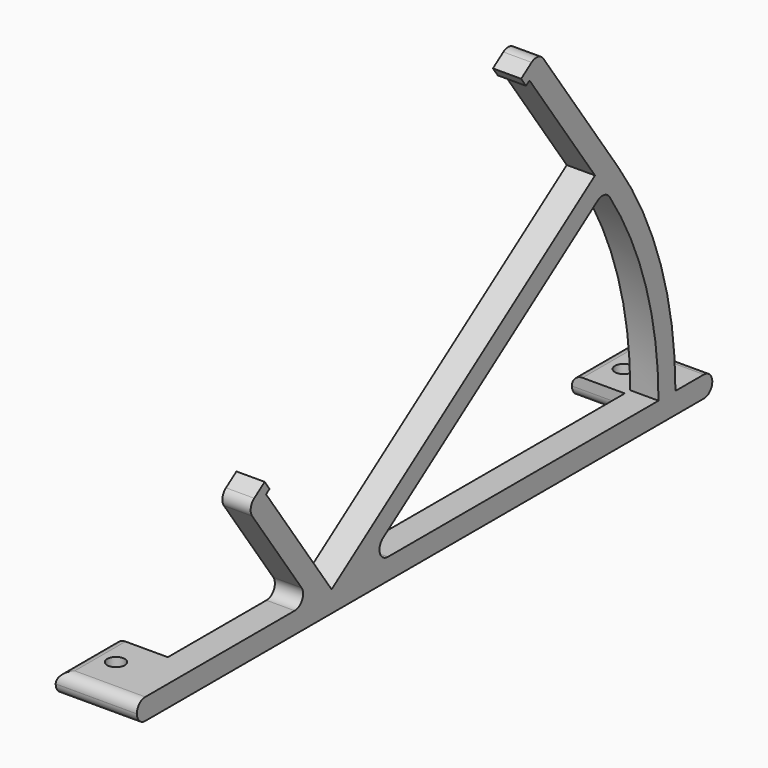
from build123d import *

# Parameters (mm, degrees)
SKETCH_W     = 5.34
SKETCH_H     = 136
PAD_DEPTH    = 4
PAD001_DEPTH = 5.34
SKETCH002_W  = 10
SKETCH002_H  = 14
SKETCH002_R  = 1.65
PAD002_DEPTH = 4
FILLET_R     = 2
FILLET001_R  = 1.99


with BuildPart() as body:
    # Sketch → Pad (new body)
    with BuildSketch(Plane.XY):
        with Locations((-2.67, 0)):
            Rectangle(SKETCH_W, SKETCH_H)
    extrude(amount=-PAD_DEPTH)

    # Sketch001 → Pad001 (join)
    with BuildSketch(Plane.YZ):
        with BuildLine():
            ThreePointArc((59.287408, 0), (55.84916, 22.338654), (45.852682, 42.609507))
            Line((45.852682, 42.609507), (28.071813, 68.00322))
            Line((26.92466, 69.641524), (28.071813, 68.00322))
            Line((22.828899, 66.773642), (26.92466, 69.641524))
            Line((23.976052, 65.135338), (22.828899, 66.773642))
            Line((24.795204, 65.708914), (23.976052, 65.135338))
            Line((24.795204, 65.708914), (40.281768, 43.591809))
            Line((40.281768, 43.591809), (-21.973787, 0))
            Line((-21.973787, 0), (-37.460351, 22.117105))
            Line((-36.641199, 22.690682), (-37.460351, 22.117105))
            Line((-37.788352, 24.328986), (-36.641199, 22.690682))
            Line((-41.884112, 21.461104), (-37.788352, 24.328986))
            Line((-40.736959, 19.822799), (-41.884112, 21.461104))
            Line((-40.736959, 19.822799), (-26.856886, 0))
            Line((-26.856886, 0), (-26.856886, -1))
            Line((-26.856886, -1), (-15, -1))
            Line((-15, -1), (-15, 0))
            Line((-15, 0), (42.576074, 40.315201))
            ThreePointArc((55.287408, 0), (52.034292, 21.135831), (42.576074, 40.315201))
            Line((55.287408, 0), (59.287408, 0))
        make_face()
    extrude(amount=-PAD001_DEPTH)

    # Sketch002 → Pad002 (join)
    with BuildSketch(Plane.XY):
        with Locations((5, 61)):
            Rectangle(SKETCH002_W, SKETCH002_H)
        with Locations((5, 60)):
            Circle(SKETCH002_R, mode=Mode.SUBTRACT)
        with Locations((5, -61)):
            Rectangle(SKETCH002_W, SKETCH002_H)
        with Locations((5, -60)):
            Circle(SKETCH002_R, mode=Mode.SUBTRACT)
    extrude(amount=-PAD002_DEPTH)

    # Fillet
    fillet_edges = [body.edges().sort_by_distance(p)[0] for p in [
        (10, 61, 0),
        (10, -61, 0),
        (5, -68, 0),
        (5, 68, 0),
        (-2.67, -26.856886, 0),
        (-2.67, -15, 0),
        (-2.67, 42.576074, 40.315201),
    ]]
    fillet(fillet_edges, radius=FILLET_R)

    # Fillet001
    fillet001_edges = [body.edges().sort_by_distance(p)[0] for p in [
        (5, -68, -4),
        (5, 68, -4),
        (5, 54, -4),
        (5, -54, -4),
        (-2.67, -41.884112, 21.461104),
        (-2.67, 26.92466, 69.641524),
    ]]
    fillet(fillet001_edges, radius=FILLET001_R)


with BuildPart() as part_mirroring:
    # Part__Mirroring: instance of Body
    add(body.part.mirror(Plane(origin=(0, 0, 0), x_dir=(0, -1, 0), z_dir=(1, 0, 0))))


solid = part_mirroring.part
